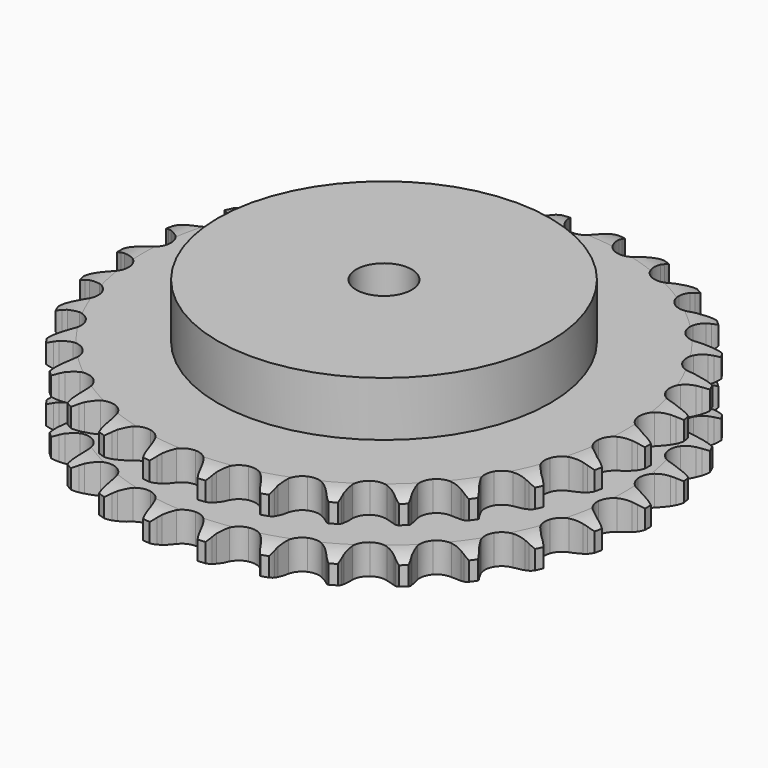
from build123d import *

# Parameters (mm, degrees)
PAD_DEPTH         = 30.3
SKETCH001_R       = 60
PAD001_DEPTH      = 50
SKETCH002_R       = 10
POCKET_DEPTH      = 0.001
POCKET_DEPTH_BACK = 50.001


with BuildPart() as part:
    # Sprocket → Pad (new body)
    with BuildSketch(Plane.XY):
        with BuildLine():
            ThreePointArc((-10.155366, 96.621854), (-8.659477, 94.892726), (-7.602598, 92.86527))
            Line((-7.602598, 92.86527), (-7.014029, 91.321265))
            ThreePointArc((-7.014029, 91.321265), (-6.080629, 89.310426), (-4.874292, 87.450463))
            ThreePointArc((-4.874292, 87.450463), (-2.723268, 85.661475), (0, 85.020231))
            ThreePointArc((0, 85.020231), (2.723268, 85.661475), (4.874292, 87.450463))
            ThreePointArc((4.874292, 87.450463), (6.080629, 89.310426), (7.014029, 91.321265))
            Line((7.014029, 91.321265), (7.602598, 92.86527))
            ThreePointArc((7.602598, 92.86527), (8.659477, 94.892726), (10.155366, 96.621854))
            ThreePointArc((10.155366, 96.621854), (11.259061, 94.619499), (11.871312, 92.41661))
            Line((11.871312, 92.41661), (12.126003, 90.783975))
            ThreePointArc((12.126003, 90.783975), (12.62093, 88.623013), (13.414196, 86.552883))
            ThreePointArc((13.414196, 86.552883), (15.146264, 84.355766), (17.6767, 83.162335))
            ThreePointArc((17.6767, 83.162335), (20.47378, 83.223367), (22.949751, 84.526038))
            Line((22.949751, 84.526038), (25.847514, 87.867378))
            ThreePointArc((25.847514, 87.867378), (26.277674, 88.573086), (26.744239, 89.255272))
            ThreePointArc((26.744239, 89.255272), (28.199553, 91.018686), (30.02226, 92.399016))
            ThreePointArc((30.02226, 92.399016), (30.685523, 90.210945), (30.826389, 87.928901))
            Line((30.826389, 87.928901), (30.736071, 86.27899))
            ThreePointArc((30.736071, 86.27899), (30.770892, 84.062349), (31.11642, 81.872526))
            ThreePointArc((31.11642, 81.872526), (32.353832, 79.363304), (34.580843, 77.669845))
            ThreePointArc((34.580843, 77.669845), (37.32949, 77.147999), (40.022195, 77.90742))
            Line((40.022195, 77.90742), (43.551339, 80.573264))
            ThreePointArc((43.551339, 80.573264), (44.118823, 81.174116), (44.717027, 81.744391))
            ThreePointArc((44.717027, 81.744391), (46.507174, 83.166693), (48.577037, 84.137897))
            ThreePointArc((48.577037, 84.137897), (48.770881, 81.859741), (48.434205, 79.598277))
            Line((48.434205, 79.598277), (48.002824, 78.003198))
            ThreePointArc((48.002824, 78.003198), (47.57602, 75.827756), (47.458707, 73.613948))
            ThreePointArc((47.458707, 73.613948), (48.147382, 70.902286), (49.973638, 68.782811))
            ThreePointArc((49.973638, 68.782811), (52.553722, 67.700892), (55.345478, 67.883874))
            Line((55.345478, 67.883874), (59.351762, 69.757713))
            ThreePointArc((59.351762, 69.757713), (60.031769, 70.227448), (60.735467, 70.660887))
            ThreePointArc((60.735467, 70.660887), (62.782209, 71.679916), (65.008765, 72.199548))
            ThreePointArc((65.008765, 72.199548), (64.724718, 69.930873), (63.925214, 67.788826))
            Line((63.925214, 67.788826), (63.171624, 66.318293))
            ThreePointArc((63.171624, 66.318293), (62.301846, 64.279127), (61.726821, 62.138086))
            ThreePointArc((61.726821, 62.138086), (61.83666, 59.342497), (63.182344, 56.889638))
            ThreePointArc((63.182344, 56.889638), (65.481104, 55.294932), (68.249897, 54.893476))
            Line((68.249897, 54.893476), (72.558227, 55.893414))
            ThreePointArc((72.558227, 55.893414), (73.321038, 56.211503), (74.099476, 56.489163))
            ThreePointArc((74.099476, 56.489163), (76.313359, 57.060382), (78.599297, 57.105732))
            ThreePointArc((78.599297, 57.105732), (77.849773, 54.94569), (76.622384, 53.016678))
            Line((76.622384, 53.016678), (75.579521, 51.73496))
            ThreePointArc((75.579521, 51.73496), (74.304784, 49.921192), (73.297176, 47.946492))
            ThreePointArc((73.297176, 47.946492), (72.82338, 45.189157), (73.629679, 42.510115))
            ThreePointArc((73.629679, 42.510115), (75.546647, 40.472318), (78.171469, 39.503971))
            Line((78.171469, 39.503971), (82.59355, 39.586305))
            ThreePointArc((82.59355, 39.586305), (83.405826, 39.738846), (84.224982, 39.848592))
            ThreePointArc((84.224982, 39.848592), (86.50925, 39.947036), (88.754664, 39.516122))
            ThreePointArc((88.754664, 39.516122), (87.57242, 37.559117), (85.970788, 35.927447))
            Line((85.970788, 35.927447), (84.68423, 34.890561))
            ThreePointArc((84.68423, 34.890561), (83.060245, 33.381461), (81.664094, 31.659407))
            ThreePointArc((81.664094, 31.659407), (80.627368, 29.060833), (80.859044, 26.272696))
            ThreePointArc((80.859044, 26.272696), (82.31044, 23.88087), (84.676572, 22.387952))
            Line((84.676572, 22.387952), (89.019139, 21.549085))
            ThreePointArc((89.019139, 21.549085), (89.845379, 21.52941), (90.669453, 21.466446))
            ThreePointArc((90.669453, 21.466446), (92.924271, 21.087813), (95.031025, 20.199468))
            ThreePointArc((95.031025, 20.199468), (93.467732, 18.53103), (91.561857, 17.268014))
            Line((91.561857, 17.268014), (90.087832, 16.521277))
            ThreePointArc((90.087832, 16.521277), (88.185575, 15.3828), (86.461898, 13.988653))
            ThreePointArc((86.461898, 13.988653), (84.907553, 11.662412), (84.554481, 8.887034))
            ThreePointArc((84.554481, 8.887034), (85.476872, 6.245713), (87.480902, 4.293472))
            Line((87.480902, 4.293472), (91.554163, 2.570066))
            ThreePointArc((91.554163, 2.570066), (92.358258, 2.379036), (93.151233, 2.146114))
            ThreePointArc((93.151233, 2.146114), (95.278056, 1.306952), (97.154075, 0))
            ThreePointArc((97.154075, 0), (95.278056, -1.306952), (93.151233, -2.146114))
            Line((93.151233, -2.146114), (91.554163, -2.570066))
            ThreePointArc((91.554163, -2.570066), (89.456773, -3.288163), (87.480902, -4.293472))
            ThreePointArc((87.480902, -4.293472), (85.476872, -6.245713), (84.554481, -8.887034))
            ThreePointArc((84.554481, -8.887034), (84.907553, -11.662412), (86.461898, -13.988653))
            Line((86.461898, -13.988653), (90.087832, -16.521277))
            ThreePointArc((90.087832, -16.521277), (90.834638, -16.875313), (91.561857, -17.268014))
            ThreePointArc((91.561857, -17.268014), (93.467732, -18.53103), (95.031025, -20.199468))
            ThreePointArc((95.031025, -20.199468), (92.924271, -21.087813), (90.669453, -21.466446))
            Line((90.669453, -21.466446), (89.019139, -21.549085))
            ThreePointArc((89.019139, -21.549085), (86.81828, -21.815418), (84.676572, -22.387952))
            ThreePointArc((84.676572, -22.387952), (82.31044, -23.88087), (80.859044, -26.272696))
            ThreePointArc((80.859044, -26.272696), (80.627368, -29.060833), (81.664094, -31.659407))
            Line((81.664094, -31.659407), (84.68423, -34.890561))
            ThreePointArc((84.68423, -34.890561), (85.341109, -35.39213), (85.970788, -35.927447))
            ThreePointArc((85.970788, -35.927447), (87.57242, -37.559117), (88.754664, -39.516122))
            ThreePointArc((88.754664, -39.516122), (86.50925, -39.947036), (84.224982, -39.848592))
            Line((84.224982, -39.848592), (82.59355, -39.586305))
            ThreePointArc((82.59355, -39.586305), (80.385412, -39.389234), (78.171469, -39.503971))
            ThreePointArc((78.171469, -39.503971), (75.546647, -40.472318), (73.629679, -42.510115))
            ThreePointArc((73.629679, -42.510115), (72.82338, -45.189157), (73.297176, -47.946492))
            Line((73.297176, -47.946492), (75.579521, -51.73496))
            ThreePointArc((75.579521, -51.73496), (76.117763, -52.362141), (76.622384, -53.016678))
            ThreePointArc((76.622384, -53.016678), (77.849773, -54.94569), (78.599297, -57.105732))
            ThreePointArc((78.599297, -57.105732), (76.313359, -57.060382), (74.099476, -56.489163))
            Line((74.099476, -56.489163), (72.558227, -55.893414))
            ThreePointArc((72.558227, -55.893414), (70.439316, -55.241552), (68.249897, -54.893476))
            ThreePointArc((68.249897, -54.893476), (65.481104, -55.294932), (63.182344, -56.889638))
            ThreePointArc((63.182344, -56.889638), (61.83666, -59.342497), (61.726821, -62.138086))
            Line((61.726821, -62.138086), (63.171624, -66.318293))
            ThreePointArc((63.171624, -66.318293), (63.567706, -67.043676), (63.925214, -67.788826))
            ThreePointArc((63.925214, -67.788826), (64.724718, -69.930873), (65.008765, -72.199548))
            ThreePointArc((65.008765, -72.199548), (62.782209, -71.679916), (60.735467, -70.660887))
            Line((60.735467, -70.660887), (59.351762, -69.757713))
            ThreePointArc((59.351762, -69.757713), (57.414683, -68.679549), (55.345478, -67.883874))
            ThreePointArc((55.345478, -67.883874), (52.553722, -67.700892), (49.973638, -68.782811))
            ThreePointArc((49.973638, -68.782811), (48.147382, -70.902286), (47.458707, -73.613948))
            Line((47.458707, -73.613948), (48.002824, -78.003198))
            ThreePointArc((48.002824, -78.003198), (48.239435, -78.79508), (48.434205, -79.598277))
            ThreePointArc((48.434205, -79.598277), (48.770881, -81.859741), (48.577037, -84.137897))
            ThreePointArc((48.577037, -84.137897), (46.507174, -83.166693), (44.717027, -81.744391))
            Line((44.717027, -81.744391), (43.551339, -80.573264))
            ThreePointArc((43.551339, -80.573264), (41.880753, -79.11592), (40.022195, -77.90742))
            ThreePointArc((40.022195, -77.90742), (37.32949, -77.147999), (34.580843, -77.669845))
            ThreePointArc((34.580843, -77.669845), (32.353832, -79.363304), (31.11642, -81.872526))
            Line((31.11642, -81.872526), (30.736071, -86.27899))
            ThreePointArc((30.736071, -86.27899), (30.802869, -87.102761), (30.826389, -87.928901))
            ThreePointArc((30.826389, -87.928901), (30.685523, -90.210945), (30.02226, -92.399016))
            ThreePointArc((30.02226, -92.399016), (28.199553, -91.018686), (26.744239, -89.255272))
            Line((26.744239, -89.255272), (25.847514, -87.867378))
            ThreePointArc((25.847514, -87.867378), (24.516434, -86.094545), (22.949751, -84.526038))
            ThreePointArc((22.949751, -84.526038), (20.47378, -83.223367), (17.6767, -83.162335))
            ThreePointArc((17.6767, -83.162335), (15.146264, -84.355766), (13.414196, -86.552883))
            Line((13.414196, -86.552883), (12.126003, -90.783975))
            ThreePointArc((12.126003, -90.783975), (12.02007, -91.603633), (11.871312, -92.41661))
            ThreePointArc((11.871312, -92.41661), (11.259061, -94.619499), (10.155366, -96.621854))
            ThreePointArc((10.155366, -96.621854), (8.659477, -94.892726), (7.602598, -92.86527))
            Line((7.602598, -92.86527), (7.014029, -91.321265))
            ThreePointArc((7.014029, -91.321265), (6.080629, -89.310426), (4.874292, -87.450463))
            ThreePointArc((4.874292, -87.450463), (2.723268, -85.661475), (0, -85.020231))
            ThreePointArc((0, -85.020231), (-2.723268, -85.661475), (-4.874292, -87.450463))
            Line((-4.874292, -87.450463), (-7.014029, -91.321265))
            ThreePointArc((-7.014029, -91.321265), (-7.288063, -92.100987), (-7.602598, -92.86527))
            ThreePointArc((-7.602598, -92.86527), (-8.659477, -94.892726), (-10.155366, -96.621854))
            ThreePointArc((-10.155366, -96.621854), (-11.259061, -94.619499), (-11.871312, -92.41661))
            Line((-11.871312, -92.41661), (-12.126003, -90.783975))
            ThreePointArc((-12.126003, -90.783975), (-12.62093, -88.623013), (-13.414196, -86.552883))
            ThreePointArc((-13.414196, -86.552883), (-15.146264, -84.355766), (-17.6767, -83.162335))
            ThreePointArc((-17.6767, -83.162335), (-20.47378, -83.223367), (-22.949751, -84.526038))
            Line((-22.949751, -84.526038), (-25.847514, -87.867378))
            ThreePointArc((-25.847514, -87.867378), (-26.277674, -88.573086), (-26.744239, -89.255272))
            ThreePointArc((-26.744239, -89.255272), (-28.199553, -91.018686), (-30.02226, -92.399016))
            ThreePointArc((-30.02226, -92.399016), (-30.685523, -90.210945), (-30.826389, -87.928901))
            Line((-30.826389, -87.928901), (-30.736071, -86.27899))
            ThreePointArc((-30.736071, -86.27899), (-30.770892, -84.062349), (-31.11642, -81.872526))
            ThreePointArc((-31.11642, -81.872526), (-32.353832, -79.363304), (-34.580843, -77.669845))
            ThreePointArc((-34.580843, -77.669845), (-37.32949, -77.147999), (-40.022195, -77.90742))
            Line((-40.022195, -77.90742), (-43.551339, -80.573264))
            ThreePointArc((-43.551339, -80.573264), (-44.118823, -81.174116), (-44.717027, -81.744391))
            ThreePointArc((-44.717027, -81.744391), (-46.507174, -83.166693), (-48.577037, -84.137897))
            ThreePointArc((-48.577037, -84.137897), (-48.770881, -81.859741), (-48.434205, -79.598277))
            Line((-48.434205, -79.598277), (-48.002824, -78.003198))
            ThreePointArc((-48.002824, -78.003198), (-47.57602, -75.827756), (-47.458707, -73.613948))
            ThreePointArc((-47.458707, -73.613948), (-48.147382, -70.902286), (-49.973638, -68.782811))
            ThreePointArc((-49.973638, -68.782811), (-52.553722, -67.700892), (-55.345478, -67.883874))
            Line((-55.345478, -67.883874), (-59.351762, -69.757713))
            ThreePointArc((-59.351762, -69.757713), (-60.031769, -70.227448), (-60.735467, -70.660887))
            ThreePointArc((-60.735467, -70.660887), (-62.782209, -71.679916), (-65.008765, -72.199548))
            ThreePointArc((-65.008765, -72.199548), (-64.724718, -69.930873), (-63.925214, -67.788826))
            Line((-63.925214, -67.788826), (-63.171624, -66.318293))
            ThreePointArc((-63.171624, -66.318293), (-62.301846, -64.279127), (-61.726821, -62.138086))
            ThreePointArc((-61.726821, -62.138086), (-61.83666, -59.342497), (-63.182344, -56.889638))
            ThreePointArc((-63.182344, -56.889638), (-65.481104, -55.294932), (-68.249897, -54.893476))
            Line((-68.249897, -54.893476), (-72.558227, -55.893414))
            ThreePointArc((-72.558227, -55.893414), (-73.321038, -56.211503), (-74.099476, -56.489163))
            ThreePointArc((-74.099476, -56.489163), (-76.313359, -57.060382), (-78.599297, -57.105732))
            ThreePointArc((-78.599297, -57.105732), (-77.849773, -54.94569), (-76.622384, -53.016678))
            Line((-76.622384, -53.016678), (-75.579521, -51.73496))
            ThreePointArc((-75.579521, -51.73496), (-74.304784, -49.921192), (-73.297176, -47.946492))
            ThreePointArc((-73.297176, -47.946492), (-72.82338, -45.189157), (-73.629679, -42.510115))
            ThreePointArc((-73.629679, -42.510115), (-75.546647, -40.472318), (-78.171469, -39.503971))
            Line((-78.171469, -39.503971), (-82.59355, -39.586305))
            ThreePointArc((-82.59355, -39.586305), (-83.405826, -39.738846), (-84.224982, -39.848592))
            ThreePointArc((-84.224982, -39.848592), (-86.50925, -39.947036), (-88.754664, -39.516122))
            ThreePointArc((-88.754664, -39.516122), (-87.57242, -37.559117), (-85.970788, -35.927447))
            Line((-85.970788, -35.927447), (-84.68423, -34.890561))
            ThreePointArc((-84.68423, -34.890561), (-83.060245, -33.381461), (-81.664094, -31.659407))
            ThreePointArc((-81.664094, -31.659407), (-80.627368, -29.060833), (-80.859044, -26.272696))
            ThreePointArc((-80.859044, -26.272696), (-82.31044, -23.88087), (-84.676572, -22.387952))
            Line((-84.676572, -22.387952), (-89.019139, -21.549085))
            ThreePointArc((-89.019139, -21.549085), (-89.845379, -21.52941), (-90.669453, -21.466446))
            ThreePointArc((-90.669453, -21.466446), (-92.924271, -21.087813), (-95.031025, -20.199468))
            ThreePointArc((-95.031025, -20.199468), (-93.467732, -18.53103), (-91.561857, -17.268014))
            Line((-91.561857, -17.268014), (-90.087832, -16.521277))
            ThreePointArc((-90.087832, -16.521277), (-88.185575, -15.3828), (-86.461898, -13.988653))
            ThreePointArc((-86.461898, -13.988653), (-84.907553, -11.662412), (-84.554481, -8.887034))
            ThreePointArc((-84.554481, -8.887034), (-85.476872, -6.245713), (-87.480902, -4.293472))
            Line((-87.480902, -4.293472), (-91.554163, -2.570066))
            ThreePointArc((-91.554163, -2.570066), (-92.358258, -2.379036), (-93.151233, -2.146114))
            ThreePointArc((-93.151233, -2.146114), (-95.278056, -1.306952), (-97.154075, 0))
            ThreePointArc((-97.154075, 0), (-95.278056, 1.306952), (-93.151233, 2.146114))
            Line((-93.151233, 2.146114), (-91.554163, 2.570066))
            ThreePointArc((-91.554163, 2.570066), (-89.456773, 3.288163), (-87.480902, 4.293472))
            ThreePointArc((-87.480902, 4.293472), (-85.476872, 6.245713), (-84.554481, 8.887034))
            ThreePointArc((-84.554481, 8.887034), (-84.907553, 11.662412), (-86.461898, 13.988653))
            Line((-86.461898, 13.988653), (-90.087832, 16.521277))
            ThreePointArc((-90.087832, 16.521277), (-90.834638, 16.875313), (-91.561857, 17.268014))
            ThreePointArc((-91.561857, 17.268014), (-93.467732, 18.53103), (-95.031025, 20.199468))
            ThreePointArc((-95.031025, 20.199468), (-92.924271, 21.087813), (-90.669453, 21.466446))
            Line((-90.669453, 21.466446), (-89.019139, 21.549085))
            ThreePointArc((-89.019139, 21.549085), (-86.81828, 21.815418), (-84.676572, 22.387952))
            ThreePointArc((-84.676572, 22.387952), (-82.31044, 23.88087), (-80.859044, 26.272696))
            ThreePointArc((-80.859044, 26.272696), (-80.627368, 29.060833), (-81.664094, 31.659407))
            Line((-81.664094, 31.659407), (-84.68423, 34.890561))
            ThreePointArc((-84.68423, 34.890561), (-85.341109, 35.39213), (-85.970788, 35.927447))
            ThreePointArc((-85.970788, 35.927447), (-87.57242, 37.559117), (-88.754664, 39.516122))
            ThreePointArc((-88.754664, 39.516122), (-86.50925, 39.947036), (-84.224982, 39.848592))
            Line((-84.224982, 39.848592), (-82.59355, 39.586305))
            ThreePointArc((-82.59355, 39.586305), (-80.385412, 39.389234), (-78.171469, 39.503971))
            ThreePointArc((-78.171469, 39.503971), (-75.546647, 40.472318), (-73.629679, 42.510115))
            ThreePointArc((-73.629679, 42.510115), (-72.82338, 45.189157), (-73.297176, 47.946492))
            Line((-73.297176, 47.946492), (-75.579521, 51.73496))
            ThreePointArc((-75.579521, 51.73496), (-76.117763, 52.362141), (-76.622384, 53.016678))
            ThreePointArc((-76.622384, 53.016678), (-77.849773, 54.94569), (-78.599297, 57.105732))
            ThreePointArc((-78.599297, 57.105732), (-76.313359, 57.060382), (-74.099476, 56.489163))
            Line((-74.099476, 56.489163), (-72.558227, 55.893414))
            ThreePointArc((-72.558227, 55.893414), (-70.439316, 55.241552), (-68.249897, 54.893476))
            ThreePointArc((-68.249897, 54.893476), (-65.481104, 55.294932), (-63.182344, 56.889638))
            ThreePointArc((-63.182344, 56.889638), (-61.83666, 59.342497), (-61.726821, 62.138086))
            Line((-61.726821, 62.138086), (-63.171624, 66.318293))
            ThreePointArc((-63.171624, 66.318293), (-63.567706, 67.043676), (-63.925214, 67.788826))
            ThreePointArc((-63.925214, 67.788826), (-64.724718, 69.930873), (-65.008765, 72.199548))
            ThreePointArc((-65.008765, 72.199548), (-62.782209, 71.679916), (-60.735467, 70.660887))
            Line((-60.735467, 70.660887), (-59.351762, 69.757713))
            ThreePointArc((-59.351762, 69.757713), (-57.414683, 68.679549), (-55.345478, 67.883874))
            ThreePointArc((-55.345478, 67.883874), (-52.553722, 67.700892), (-49.973638, 68.782811))
            ThreePointArc((-49.973638, 68.782811), (-48.147382, 70.902286), (-47.458707, 73.613948))
            Line((-47.458707, 73.613948), (-48.002824, 78.003198))
            ThreePointArc((-48.002824, 78.003198), (-48.239435, 78.79508), (-48.434205, 79.598277))
            ThreePointArc((-48.434205, 79.598277), (-48.770881, 81.859741), (-48.577037, 84.137897))
            ThreePointArc((-48.577037, 84.137897), (-46.507174, 83.166693), (-44.717027, 81.744391))
            Line((-44.717027, 81.744391), (-43.551339, 80.573264))
            ThreePointArc((-43.551339, 80.573264), (-41.880753, 79.11592), (-40.022195, 77.90742))
            ThreePointArc((-40.022195, 77.90742), (-37.32949, 77.147999), (-34.580843, 77.669845))
            ThreePointArc((-34.580843, 77.669845), (-32.353832, 79.363304), (-31.11642, 81.872526))
            Line((-31.11642, 81.872526), (-30.736071, 86.27899))
            ThreePointArc((-30.736071, 86.27899), (-30.802869, 87.102761), (-30.826389, 87.928901))
            ThreePointArc((-30.826389, 87.928901), (-30.685523, 90.210945), (-30.02226, 92.399016))
            ThreePointArc((-30.02226, 92.399016), (-28.199553, 91.018686), (-26.744239, 89.255272))
            Line((-26.744239, 89.255272), (-25.847514, 87.867378))
            ThreePointArc((-25.847514, 87.867378), (-24.516434, 86.094545), (-22.949751, 84.526038))
            ThreePointArc((-22.949751, 84.526038), (-20.47378, 83.223367), (-17.6767, 83.162335))
            ThreePointArc((-17.6767, 83.162335), (-15.146264, 84.355766), (-13.414196, 86.552883))
            Line((-13.414196, 86.552883), (-12.126003, 90.783975))
            ThreePointArc((-12.126003, 90.783975), (-12.02007, 91.603633), (-11.871312, 92.41661))
            ThreePointArc((-11.871312, 92.41661), (-11.259061, 94.619499), (-10.155366, 96.621854))
        make_face()
    extrude(amount=PAD_DEPTH)

    # Sketch → Groove (revolve, cut)
    with BuildSketch(Plane.XZ):
        with BuildLine():
            ThreePointArc((86.764719, 0), (91.123618, 0.506758), (95.25, 2))
            Line((95.25, 2), (95.25, 8.8))
            ThreePointArc((95.25, 8.8), (91.123618, 10.293242), (86.764719, 10.8))
            Line((60, 10.8), (86.764719, 10.8))
            Line((60, 19.5), (60, 10.8))
            Line((86.764719, 19.5), (60, 19.5))
            ThreePointArc((86.764719, 19.5), (91.123618, 20.006758), (95.25, 21.5))
            Line((95.25, 21.5), (95.25, 28.3))
            ThreePointArc((95.25, 28.3), (91.123618, 29.793242), (86.764719, 30.3))
            Line((86.764719, 30.3), (105.25, 30.3))
            Line((105.25, 30.3), (105.25, 0))
            Line((86.764719, 0), (105.25, 0))
        make_face()
    revolve(axis=Axis((0, 0, 0), (0, 0, 1)), mode=Mode.SUBTRACT)

    # Sketch001 → Pad001 (join)
    with BuildSketch(Plane.XY):
        Circle(SKETCH001_R)
    extrude(amount=PAD001_DEPTH)

    # Sketch002 → Pocket (cut, two sides)
    with BuildSketch(Plane.XY) as pocket_sk:
        Circle(SKETCH002_R)
    extrude(amount=-POCKET_DEPTH, mode=Mode.SUBTRACT)
    extrude(pocket_sk.sketch, amount=POCKET_DEPTH_BACK, mode=Mode.SUBTRACT)


solid = part.part
